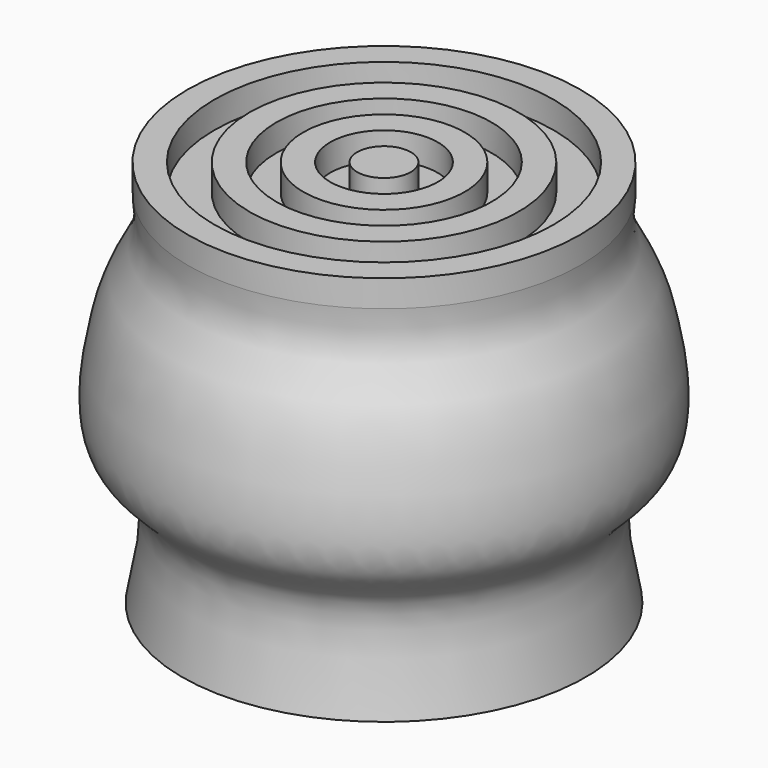
from build123d import *


with BuildPart() as f1:
    # F0 (on Front) → F1 (revolve)
    with BuildSketch(Plane.XZ):
        with BuildLine():
            add(Edge.make_bspline(
                [(-37.0839759707, 68.117402494), (-36.8063002234, 65.9042636287), (-36.2198304085, 61.2299658081), (-41.1905487968, 53.8292475332), (-44.0319381804, 44.7302817234), (-46.5193861864, 26.0731826506), (-33.8757178745, 20.4541391197), (-36.557329743, 7.4696696659), (-38.1, 0)],
                knots=[0, 0, 0, 0, 0.1263691069, 0.2669000352, 0.4239258678, 0.6249048144, 0.7842162793, 1, 1, 1, 1], degree=3))
            Line((-38.1, 0), (0, 0))
            Line((0, 0), (0, 73.197402494))
            Line((0, 73.197402494), (-5.08, 73.197402494))
            Line((-5.08, 73.197402494), (-5.08, 68.117402494))
            Line((-5.08, 68.117402494), (-10.16, 68.117402494))
            Line((-10.16, 68.117402494), (-10.16, 73.197402494))
            Line((-10.16, 73.197402494), (-15.24, 73.197402494))
            Line((-15.24, 73.197402494), (-15.24, 68.117402494))
            Line((-15.24, 68.117402494), (-20.32, 68.117402494))
            Line((-20.32, 68.117402494), (-20.32, 73.197402494))
            Line((-20.32, 73.197402494), (-25.4, 73.197402494))
            Line((-25.4, 73.197402494), (-25.4, 68.117402494))
            Line((-25.4, 68.117402494), (-32.0093259215, 68.117402494))
            Line((-32.0093259215, 68.117402494), (-32.0093259215, 73.1920525432))
            Line((-32.0093259215, 73.1920525432), (-37.0839759707, 73.1920525432))
            Line((-37.0839759707, 73.1920525432), (-37.0839759707, 68.117402494))
        make_face()
    revolve(axis=Axis((0, 0, 36.598701247), (0, 0, 1)))


solid = f1.part
